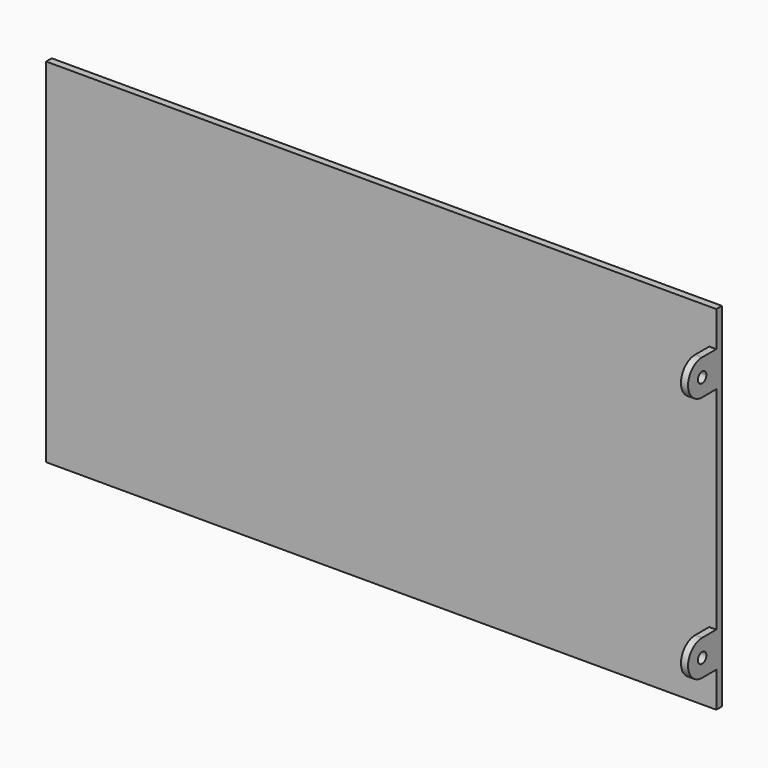
from build123d import *

# Parameters (mm, degrees)
F1_DEPTH = 2
F0_W     = 1
F0_H     = 10
F2_DEPTH = 7
F3_R     = 1.5
F4_DEPTH = 2
F5_DEPTH = 25


with BuildPart() as f1:
    # F0 (on Front) → F1 (new body)
    with BuildSketch(Plane.XZ):
        Polygon((-95, -50), (95, -50), (95, -40), (94, -40), (94, -30), (95, -30), (95, 30), (94, 30), (94, 40), (95, 40), (95, 50), (-95, 50), align=None)
    extrude(amount=F1_DEPTH)



with BuildPart() as f2:
    # F0 (on Front) → F2 (new body)
    with BuildSketch(Plane.XZ):
        with Locations((94.5, 35)):
            Rectangle(F0_W, F0_H)
    extrude(amount=F2_DEPTH)


with BuildPart() as f2b:
    # F0 (on Front) → F2, piece 2 (new body)
    with BuildSketch(Plane.XZ):
        with Locations((94.5, -35)):
            Rectangle(F0_W, F0_H)
    extrude(amount=F2_DEPTH)


with BuildPart() as f1_1:
    add(f1.part)

    add(f2.part)  # F4 merges F2

    add(f2b.part)  # F4 merges F2b
    # F3 (on face) → F4 (join)
    with BuildSketch(Plane.YZ.offset(95)):
        with BuildLine():
            Line((0, -30), (-7, -30))
            ThreePointArc((-7, -30), (-12, -35), (-7, -40))
            Line((-7, -40), (0, -40))
            Line((0, -40), (0, -30))
        make_face()
        with Locations((-7, -35)):
            Circle(F3_R, mode=Mode.SUBTRACT)
        with BuildLine():
            Line((0, 40), (-7, 40))
            Line((-7, 40), (-7, 36.5))
            ThreePointArc((-7, 36.5), (-5.9393398282, 36.0606601718), (-5.5, 35))
            ThreePointArc((-5.5, 35), (-5.9393398282, 33.9393398282), (-7, 33.5))
            Line((-7, 33.5), (-7, 30))
            Line((-7, 30), (0, 30))
            Line((0, 30), (0, 40))
        make_face()
        with Locations((-7, -35)):
            Circle(F3_R)
        with BuildLine():
            Line((-7, 36.5), (-7, 40))
            ThreePointArc((-7, 40), (-12, 35), (-7, 30))
            Line((-7, 30), (-7, 33.5))
            ThreePointArc((-7, 33.5), (-8.5, 35), (-7, 36.5))
        make_face()
        with BuildLine():
            ThreePointArc((-5.5, 35), (-5.9393398282, 36.0606601718), (-7, 36.5))
            Line((-7, 36.5), (-7, 33.5))
            ThreePointArc((-7, 33.5), (-5.9393398282, 33.9393398282), (-5.5, 35))
        make_face()
        with BuildLine():
            Line((-7, 33.5), (-7, 36.5))
            ThreePointArc((-7, 36.5), (-8.5, 35), (-7, 33.5))
        make_face()
    extrude(amount=-F4_DEPTH)

    # F3 (on face) → F5 (cut)
    with BuildSketch(Plane.YZ.offset(95)):
        with Locations((-7, -35)):
            Circle(F3_R)
        with BuildLine():
            Line((-7, 33.5), (-7, 36.5))
            ThreePointArc((-7, 36.5), (-8.5, 35), (-7, 33.5))
        make_face()
        with BuildLine():
            ThreePointArc((-5.5, 35), (-5.9393398282, 36.0606601718), (-7, 36.5))
            Line((-7, 36.5), (-7, 33.5))
            ThreePointArc((-7, 33.5), (-5.9393398282, 33.9393398282), (-5.5, 35))
        make_face()
    extrude(amount=-F5_DEPTH, mode=Mode.SUBTRACT)


solid = f1_1.part
